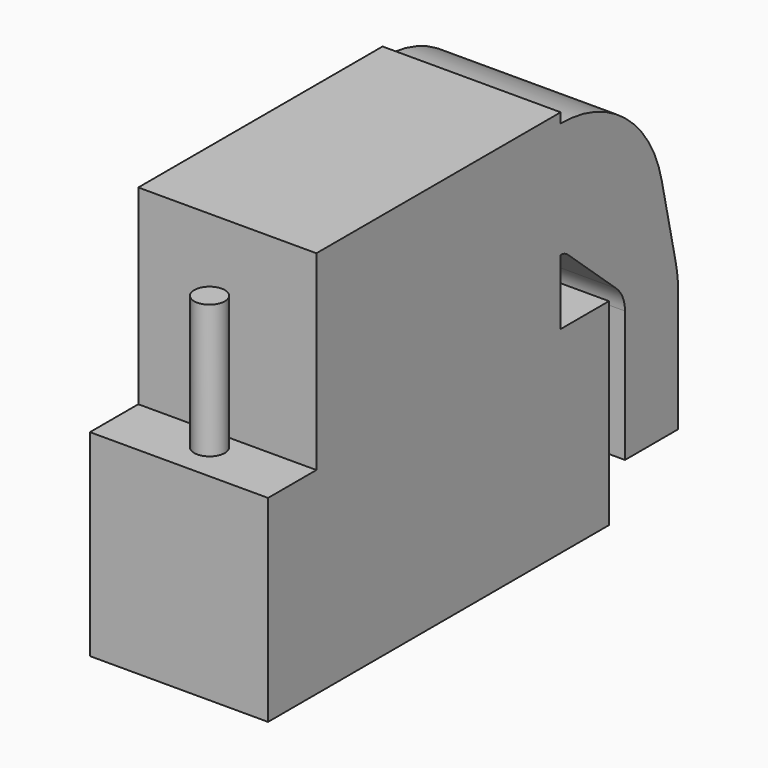
from build123d import *

# Parameters (mm, degrees)
PAD015_DEPTH = 14
SKETCH019_R  = 1.2
SKETCH019_W  = 24
SKETCH019_H  = 13
PAD014_DEPTH = 16
BOX068_W     = 14
BOX068_H     = 24
BOX068_DEPTH = 29.5
BOX067_W     = 14
BOX067_H     = 33.5
BOX067_DEPTH = 15.5


with BuildPart() as pad015:
    # Sketch020 → Pad015 (new body)
    with BuildSketch(Plane.YZ.offset(-232)):
        with BuildLine():
            Line((58.746344, 151.629037), (56.780618, 151.629037))
            Line((56.780618, 151.629037), (56.780618, 160.732927))
            Line((56.780618, 160.732927), (58.746348, 160.732927))
            ThreePointArc((68.674081, 152.764142), (65.111515, 158.494314), (58.746348, 160.732927))
            Line((70.065189, 146.485826), (68.674081, 152.764142))
            ThreePointArc((70.282905, 144.496813), (70.228314, 145.49726), (70.065189, 146.485826))
            Line((70.282905, 134.870576), (70.282905, 144.496813))
            Line((65.069016, 134.870576), (70.282905, 134.870576))
            Line((65.069016, 145.176214), (65.069016, 134.870576))
            ThreePointArc((65.069016, 145.176214), (64.846538, 146.220855), (64.217716, 147.084195))
            Line((59.457466, 151.35671), (64.217716, 147.084195))
            ThreePointArc((59.457466, 151.35671), (59.127086, 151.558628), (58.746344, 151.629037))
        make_face()
    extrude(amount=-PAD015_DEPTH)


with BuildPart() as pad014:
    # Sketch019 → Pad014 (new body)
    with BuildSketch(Plane(origin=(-119, 23.5, 141), x_dir=(0, 1, 0), z_dir=(0, 0, 1))):
        with Locations((37, 120)):
            Circle(SKETCH019_R)
        with Locations((9.5, 120)):
            Circle(SKETCH019_R)
        with Locations((23.25, 120)):
            Rectangle(SKETCH019_W, SKETCH019_H)
    extrude(amount=PAD014_DEPTH)


with BuildPart() as cubo014:
    # Box068 → Box068 (new body)
    with BuildSketch(Plane(origin=(-246, 34.75, 132), x_dir=(1, 0, 0), z_dir=(0, 0, 1))):
        with Locations((7, 12)):
            Rectangle(BOX068_W, BOX068_H)
    extrude(amount=BOX068_DEPTH)


with BuildPart() as head_positive_cut:
    # Box067 → Box067 (new body)
    with BuildSketch(Plane(origin=(-246, 30, 131), x_dir=(1, 0, 0), z_dir=(0, 0, 1))):
        with Locations((7, 16.75)):
            Rectangle(BOX067_W, BOX067_H)
    extrude(amount=BOX067_DEPTH)

    # Fusion065: union Pad015, Pad014, Cubo014
    add(pad015.part)
    add(pad014.part)
    add(cubo014.part)


solid = head_positive_cut.part
